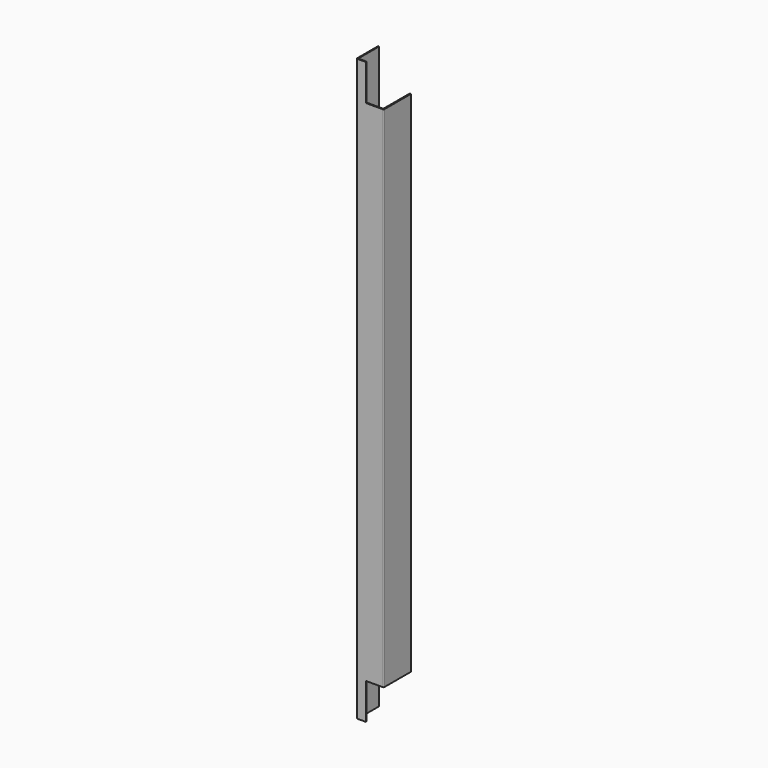
from build123d import *

# Parameters (mm, degrees)
F1_DEPTH = 2414
F2_W     = 92.181497
F2_H     = 150
F2_W_2   = 70
F2_W_3   = 4
F3_DEPTH = 141.501


with BuildPart() as f1:
    # F0 (on Top) → F1 (new body)
    with BuildSketch(Plane.XY):
        with BuildLine():
            Line((-55.224173, 112.5), (-59.224173, 112.5))
            Line((-59.224173, 112.5), (-59.224173, 4))
            ThreePointArc((-59.224173, 4), (-58.0526, 1.171573), (-55.224173, 0))
            Line((-55.224173, 0), (49.775827, 0))
            ThreePointArc((49.775827, 0), (52.604254, 1.171573), (53.775827, 4))
            Line((53.775827, 4), (53.775827, 141.5))
            Line((53.775827, 141.5), (48.775827, 141.5))
            Line((48.775827, 141.5), (48.775827, 8))
            ThreePointArc((48.775827, 8), (47.604254, 5.171573), (44.775827, 4))
            Line((44.775827, 4), (-51.224173, 4))
            ThreePointArc((-51.224173, 4), (-54.0526, 5.171573), (-55.224173, 8))
            Line((-55.224173, 8), (-55.224173, 112.5))
        make_face()
    extrude(amount=F1_DEPTH)

    # F2 (on face) → F3 (cut, through all)
    with BuildSketch(Plane.XZ):
        with Locations((99.866575, 2339)):
            Rectangle(F2_W, F2_H)
        with Locations((14.775827, 2339)):
            Rectangle(F2_W_2, F2_H)
        with Locations((51.775827, 2339)):
            Rectangle(F2_W_3, F2_H)
        with Locations((51.775827, 75)):
            Rectangle(F2_W_3, F2_H)
        with Locations((99.866575, 75)):
            Rectangle(F2_W, F2_H)
        with Locations((14.775827, 75)):
            Rectangle(F2_W_2, F2_H)
    extrude(amount=-F3_DEPTH, mode=Mode.SUBTRACT)


solid = f1.part
